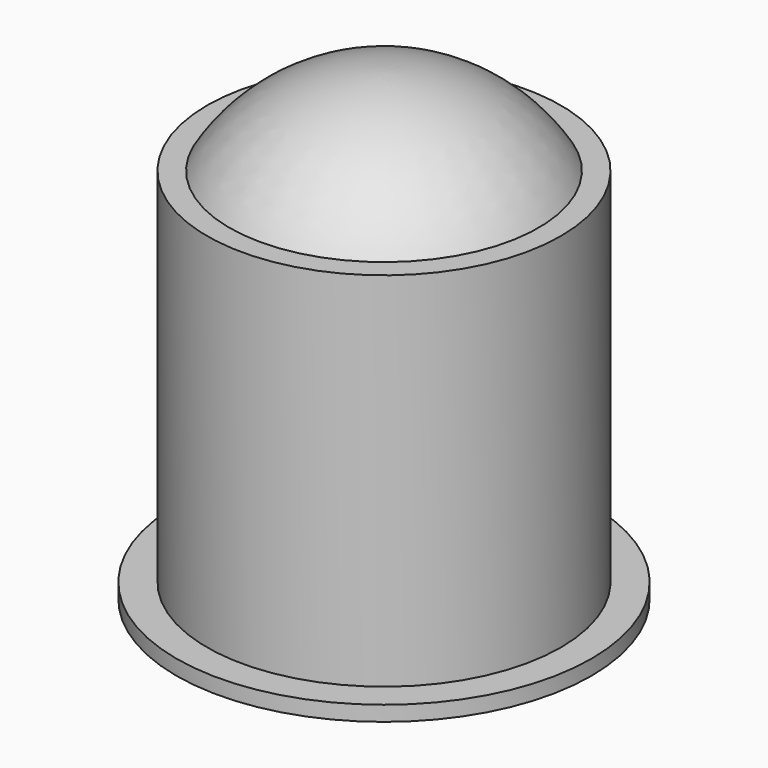
from build123d import *

# Parameters (mm, degrees)
SKETCH_R     = 2.75
PAD_DEPTH    = 0.2
SKETCH002_R  = 2.345
PAD001_DEPTH = 5


with BuildPart() as part:
    # Sketch → Pad (new body)
    with BuildSketch(Plane.XY):
        Circle(SKETCH_R)
    extrude(amount=PAD_DEPTH)

    # Sketch002 → Pad001 (join)
    with BuildSketch(Plane.XY):
        Circle(SKETCH002_R)
    extrude(amount=PAD001_DEPTH)

    # Sketch003 → Revolution (revolve)
    with BuildSketch(Plane.YZ):
        with BuildLine():
            Line((0, 4.85), (0, 6.15))
            ThreePointArc((2.133073, 4.85), (1.249, 5.79939), (0, 6.15))
            Line((0, 4.85), (2.133073, 4.85))
        make_face()
    revolve(axis=Axis((0, 0, 0), (0, 0, 1)))


solid = part.part
